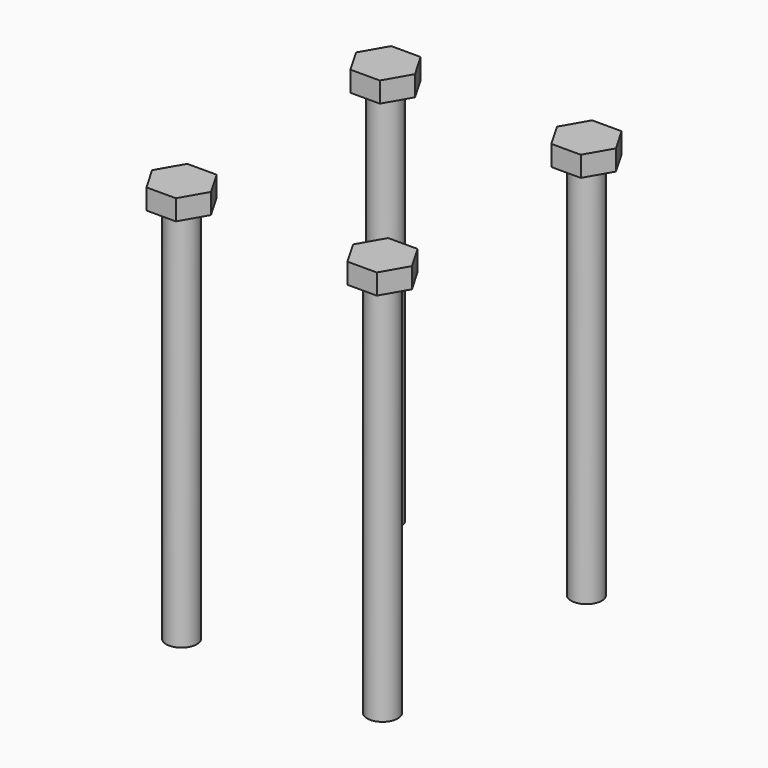
from build123d import *

# Parameters (mm, degrees)
F0_R     = 3
F1_DEPTH = 75
F3_DEPTH = 4


with BuildPart() as f1:
    # F0 (on Top) → F1 (new body)
    with BuildSketch(Plane.XY):
        with Locations((-8.5166577033, 0)):
            Circle(F0_R)
    extrude(amount=F1_DEPTH)


with BuildPart() as f1b:
    # F0 (on Top) → F1, piece 2 (new body)
    with BuildSketch(Plane.XY):
        with Locations((-19.7027108801, 0)):
            Circle(F0_R)
    extrude(amount=F1_DEPTH)

    # F2 (on face) → F3 (join)
    with BuildSketch(Plane.XY.offset(75)):
        Polygon((-16.8159595341, 5), (-22.589462226, 5), (-25.4762135719, 0), (-22.589462226, -5), (-16.8159595341, -5), (-13.9292081882, 0), align=None)
    extrude(amount=F3_DEPTH)


with BuildPart() as f1c:
    # F0 (on Top) → F1, piece 3 (new body)
    with BuildSketch(Plane.XY):
        with Locations((8.7708764974, 0)):
            Circle(F0_R)
    extrude(amount=F1_DEPTH)


with BuildPart() as f1d:
    # F0 (on Top) → F1, piece 4 (new body)
    with BuildSketch(Plane.XY):
        with Locations((16.9061870563, 0)):
            Circle(F0_R)
    extrude(amount=F1_DEPTH)


with BuildPart() as f6_1:
    # F6: instance of F1b
    add(f1b.part.mirror(Plane.YZ))


with BuildPart() as f8_1:
    # F8: instance of F1b
    add(f1b.part.mirror(Plane.XZ.offset(25)))


with BuildPart() as f9_1:
    # F9: instance of F6_1
    add(f6_1.part.mirror(Plane.XZ.offset(25)))


solid = Compound([f1b.part, f6_1.part, f8_1.part, f9_1.part])
